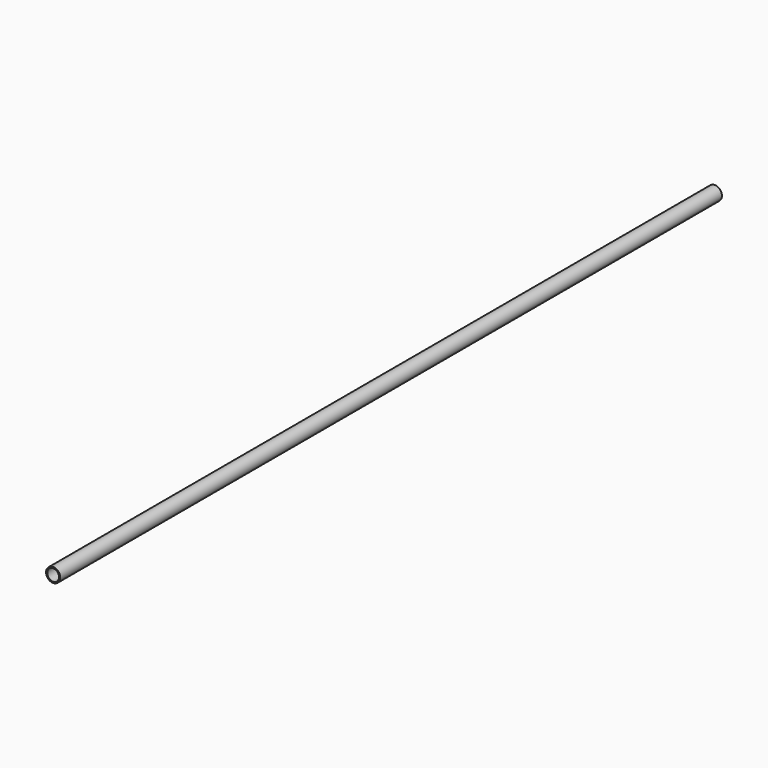
from build123d import *

# Parameters (mm, degrees)
F0_R     = 3
F0_R_2   = 2.5
F1_DEPTH = 350


with BuildPart() as f1:
    # F0 (on Front) → F1 (new body)
    with BuildSketch(Plane.XZ):
        with Locations((-5.34468, 5.181072)):
            Circle(F0_R)
        with Locations((-5.34468, 5.181072)):
            Circle(F0_R_2, mode=Mode.SUBTRACT)
    extrude(amount=-F1_DEPTH)


solid = f1.part
